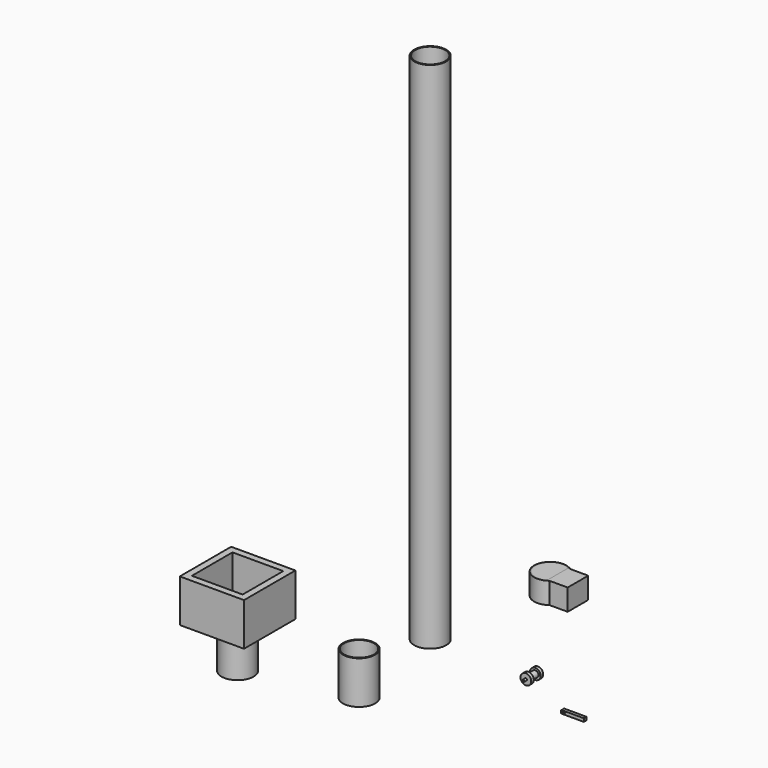
from build123d import *

# Parameters (mm, degrees)
F0_R      = 9.525
F0_R_2    = 8.89
F1_DEPTH  = 25.4
F2_R      = 0.635
F3_DEPTH  = 6.35
F2_R_2    = 3.175
F2_R_3    = 1.905
F4_DEPTH  = 4.445
F5_DEPTH  = 2.54
F6_R      = 0.635
F7_DEPTH  = 1.9304
F8_W      = 15.24
F8_H      = 12.7
F8_W_2    = 1.9304
F8_H_2    = 1.905
F9_DEPTH  = 6
F10_DEPTH = 6
F12_DEPTH = 12.7
F13_DEPTH = 1.27
F14_W     = 38.1
F14_H     = 38.1
F14_W_2   = 30.099
F14_H_2   = 30.1
F15_DEPTH = 25.4
F14_R     = 9.525
F16_DEPTH = 4
F17_DEPTH = 25.4
F18_R     = 9.525
F18_R_2   = 8.89
F19_DEPTH = 304.8


with BuildPart() as f1:
    # F0 (on Top) → F1 (new body)
    with BuildSketch(Plane.XY):
        with Locations((-57.8795745969, -26.773173362)):
            Circle(F0_R)
        with Locations((-57.8795745969, -26.773173362)):
            Circle(F0_R_2, mode=Mode.SUBTRACT)
    extrude(amount=F1_DEPTH)


with BuildPart() as f3:
    # F2 (on Front) → F3 (new body, symmetric)
    with BuildSketch(Plane.XZ):
        with Locations((23.2137329876, 26.773173362)):
            Circle(F2_R)
    extrude(amount=F3_DEPTH, both=True)

    # F2 (on Front) → F4 (join, symmetric)
    with BuildSketch(Plane.XZ):
        with Locations((23.2137329876, 26.773173362)):
            Circle(F2_R_2)
        with Locations((23.2137329876, 26.773173362)):
            Circle(F2_R_3, mode=Mode.SUBTRACT)
        with Locations((23.2137329876, 26.773173362)):
            Circle(F2_R_3)
        with Locations((23.2137329876, 26.773173362)):
            Circle(F2_R, mode=Mode.SUBTRACT)
    extrude(amount=F4_DEPTH, both=True)

    # F2 (on Front) → F5 (cut, symmetric)
    with BuildSketch(Plane.XZ):
        with Locations((23.2137329876, 26.773173362)):
            Circle(F2_R_2)
        with Locations((23.2137329876, 26.773173362)):
            Circle(F2_R_3, mode=Mode.SUBTRACT)
    extrude(amount=F5_DEPTH, both=True, mode=Mode.SUBTRACT)


with BuildPart() as f7:
    # F6 (on Front) → F7 (new body)
    with BuildSketch(Plane.XZ):
        with BuildLine():
            ThreePointArc((41.9973280752, 14.5753064631), (42.1461178303, 14.2160962183), (42.5053280752, 14.0673064631))
            Line((42.5053280752, 14.0673064631), (55.6173280752, 14.0673064631))
            Line((55.6173280752, 14.0673064631), (55.6173280752, 15.9723064631))
            Line((55.6173280752, 15.9723064631), (42.5053280752, 15.9723064631))
            ThreePointArc((42.5053280752, 15.9723064631), (42.1461178303, 15.8235167079), (41.9973280752, 15.4643064631))
            Line((41.9973280752, 15.4643064631), (41.9973280752, 14.5753064631))
        make_face()
        with Locations((43.7273280752, 15.0198064631)):
            Circle(F6_R, mode=Mode.SUBTRACT)
    extrude(amount=F7_DEPTH)


with BuildPart() as f9:
    # F8 (on Right) → F9 (new body)
    with BuildSketch(Plane.YZ):
        with Locations((55.6959787431, 41.4424056315)):
            Rectangle(F8_W, F8_H)
        with Locations((50.3111787431, 41.4424056315)):
            Rectangle(F8_W_2, F8_H_2, mode=Mode.SUBTRACT)
        with Locations((61.0807787431, 41.4424056315)):
            Rectangle(F8_W_2, F8_H_2, mode=Mode.SUBTRACT)
    extrude(amount=-F9_DEPTH)

    # F8 (on Right) → F10 (join)
    with BuildSketch(Plane.YZ):
        with Locations((55.6959787431, 41.4424056315)):
            Rectangle(F8_W, F8_H)
        with Locations((50.3111787431, 41.4424056315)):
            Rectangle(F8_W_2, F8_H_2, mode=Mode.SUBTRACT)
        with Locations((61.0807787431, 41.4424056315)):
            Rectangle(F8_W_2, F8_H_2, mode=Mode.SUBTRACT)
        with Locations((50.3111787431, 41.4424056315)):
            Rectangle(F8_W_2, F8_H_2)
        with Locations((61.0807787431, 41.4424056315)):
            Rectangle(F8_W_2, F8_H_2)
    extrude(amount=F10_DEPTH)


with BuildPart() as f12:
    # F11 (on face) → F12 (new body)
    with BuildSketch(Plane.XY.offset(47.7924056315)):
        with BuildLine():
            Line((-5.8659498802, 63.3159787431), (-4.73, 63.3159787431))
            ThreePointArc((-4.73, 63.3159787431), (-19.97, 55.6959787431), (-4.73, 48.0759787431))
            Line((-4.73, 48.0759787431), (-5.8659498802, 48.0759787431))
            ThreePointArc((-5.8659498802, 48.0759787431), (-19.335, 55.6959787431), (-5.8659498802, 63.3159787431))
        make_face()
    extrude(amount=-F12_DEPTH)


with BuildPart() as f13:
    # F11 (on face) → F13 (new body)
    with BuildSketch(Plane.XY.offset(47.7924056315)):
        with BuildLine():
            Line((-6, 63.3159787431), (-5.8659498802, 63.3159787431))
            ThreePointArc((-5.8659498802, 63.3159787431), (-19.335, 55.6959787431), (-5.8659498802, 48.0759787431))
            Line((-5.8659498802, 48.0759787431), (-6, 48.0759787431))
            Line((-6, 48.0759787431), (-6, 63.3159787431))
        make_face()
    extrude(amount=-F13_DEPTH)


with BuildPart() as f15:
    # F14 (on Top) → F15 (new body)
    with BuildSketch(Plane.XY):
        with Locations((-149.0871561402, -2.8278583124)):
            Rectangle(F14_W, F14_H)
        with Locations((-149.0871561402, -2.8278583124)):
            Rectangle(F14_W_2, F14_H_2, mode=Mode.SUBTRACT)
    extrude(amount=F15_DEPTH)

    # F14 (on Top) → F16 (join)
    with BuildSketch(Plane.XY):
        with Locations((-149.0871561402, -2.8278583124)):
            Rectangle(F14_W_2, F14_H_2)
        with Locations((-149.0871561402, -2.8278583124)):
            Circle(F14_R, mode=Mode.SUBTRACT)
        with Locations((-149.0871561402, -2.8278583124)):
            Circle(F14_R)
        with BuildLine():
            ThreePointArc((-144.0871561402, 4.5227947198), (-141.2296088129, 1.3303925217), (-140.1971561402, -2.8278583124))
            ThreePointArc((-140.1971561402, -2.8278583124), (-153.2454069744, -10.6854056397), (-154.0871561402, 4.5227947198))
            Line((-154.0871561402, 4.5227947198), (-154.0871561402, 4.9436746754))
            Line((-154.0871561402, 4.9436746754), (-153.4040271156, 4.9436746754))
            ThreePointArc((-153.4040271156, 4.9436746754), (-149.0871561402, 6.0621416876), (-144.7702851648, 4.9436746754))
            Line((-144.7702851648, 4.9436746754), (-144.0871561402, 4.9436746754))
            Line((-144.0871561402, 4.9436746754), (-144.0871561402, 4.5227947198))
        make_face(mode=Mode.SUBTRACT)
        with BuildLine():
            ThreePointArc((-154.0871561402, 4.5227947198), (-153.2454069744, -10.6854056397), (-140.1971561402, -2.8278583124))
            ThreePointArc((-140.1971561402, -2.8278583124), (-141.2296088129, 1.3303925217), (-144.0871561402, 4.5227947198))
            Line((-144.0871561402, 4.5227947198), (-144.0871561402, 2.6086086997))
            Line((-144.0871561402, 2.6086086997), (-154.0871561402, 2.6086086997))
            Line((-154.0871561402, 2.6086086997), (-154.0871561402, 4.5227947198))
        make_face()
        with BuildLine():
            Line((-153.4040271156, 4.9436746754), (-144.7702851648, 4.9436746754))
            ThreePointArc((-144.7702851648, 4.9436746754), (-149.0871561402, 6.0621416876), (-153.4040271156, 4.9436746754))
        make_face()
    extrude(amount=F16_DEPTH)

    # F14 (on Top) → F17 (join)
    with BuildSketch(Plane.XY):
        with Locations((-149.0871561402, -2.8278583124)):
            Circle(F14_R)
        with BuildLine():
            ThreePointArc((-144.0871561402, 4.5227947198), (-141.2296088129, 1.3303925217), (-140.1971561402, -2.8278583124))
            ThreePointArc((-140.1971561402, -2.8278583124), (-153.2454069744, -10.6854056397), (-154.0871561402, 4.5227947198))
            Line((-154.0871561402, 4.5227947198), (-154.0871561402, 4.9436746754))
            Line((-154.0871561402, 4.9436746754), (-153.4040271156, 4.9436746754))
            ThreePointArc((-153.4040271156, 4.9436746754), (-149.0871561402, 6.0621416876), (-144.7702851648, 4.9436746754))
            Line((-144.7702851648, 4.9436746754), (-144.0871561402, 4.9436746754))
            Line((-144.0871561402, 4.9436746754), (-144.0871561402, 4.5227947198))
        make_face(mode=Mode.SUBTRACT)
    extrude(amount=-F17_DEPTH)


with BuildPart() as f19:
    # F18 (on Top) → F19 (new body)
    with BuildSketch(Plane.XY):
        with Locations((-68.6496794224, 39.455337053)):
            Circle(F18_R)
        with Locations((-68.6496794224, 39.455337053)):
            Circle(F18_R_2, mode=Mode.SUBTRACT)
    extrude(amount=F19_DEPTH)


solid = Compound([f1.part, f3.part, f7.part, f9.part, f12.part, f13.part, f15.part, f19.part])
